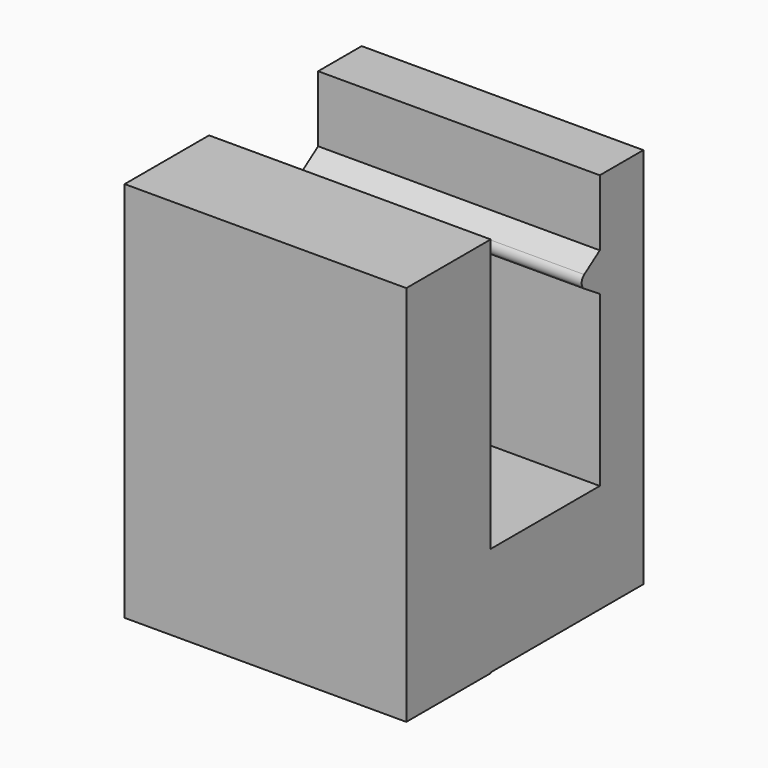
from build123d import *

# Parameters (mm, degrees)
F1_DEPTH = 37.5


with BuildPart() as f1:
    # F0 (on Right) → F1 (new body, symmetric)
    with BuildSketch(Plane.YZ):
        Polygon((14.044881, -21.708332), (14.044881, 50.845534), (-14.044881, 50.845534), (-14.044881, -50.845534), (14.044881, -50.845534), (14.044881, -50.646797), align=None)
        Polygon((50.35764, -21.708332), (14.044881, -21.708332), (14.044881, -50.646797), (64.852014, -50.646797), (64.852014, -21.708332), align=None)
        Polygon((50.35764, 23.302022), (50.35764, -21.708332), (64.852014, -21.708332), (64.852014, 51.121198), (50.35764, 51.121198), (50.35764, 33.526592), align=None)
        with BuildLine():
            Line((45.221264, 26.623617), (50.35764, 23.302022))
            Line((50.35764, 23.302022), (50.35764, 33.526592))
            Line((50.35764, 33.526592), (45.171699, 29.949367))
            ThreePointArc((45.171699, 29.949367), (44.307541, 28.273244), (45.221264, 26.623617))
        make_face()
    extrude(amount=F1_DEPTH, both=True)


solid = f1.part
